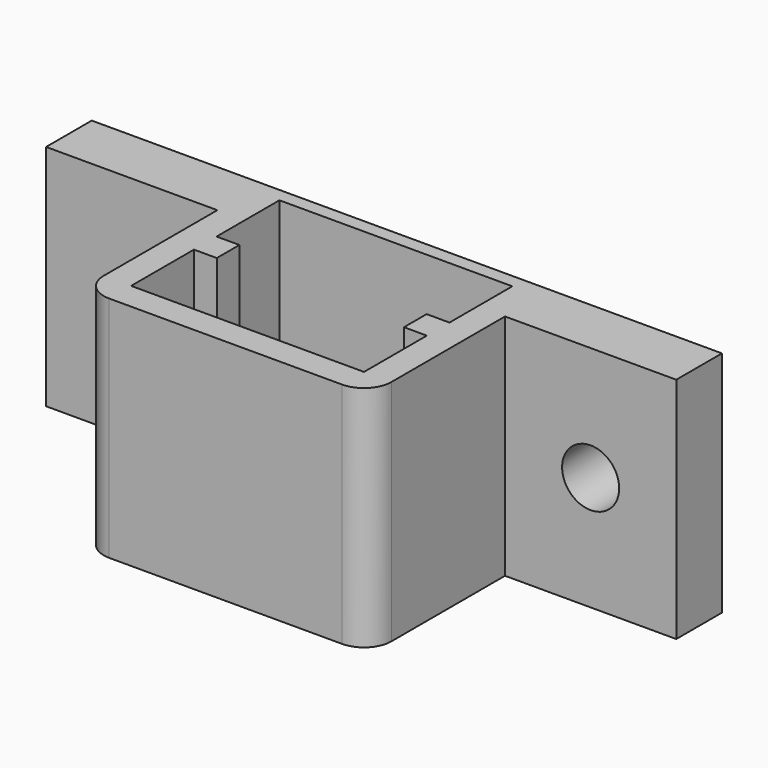
from build123d import *

# Parameters (mm, degrees)
F0_W     = 16.002
F0_H     = 12.5984
F1_DEPTH = 12.7
F2_W     = 9.525
F2_H     = 12.7
F3_DEPTH = 3.175
F4_R     = 1.524
F5_R     = 1.5875
F6_DEPTH = 25.4


with BuildPart() as f1:
    # F0 (on Top) → F1 (new body)
    with BuildSketch(Plane.XY):
        with Locations((0, 4.7752)):
            Rectangle(F0_W, F0_H)
        Polygon((6.477, 4.3688), (6.477, 0), (-6.477, 0), (-6.477, 4.3688), (-5.207, 4.3688), (-5.207, 5.9436), (-6.477, 5.9436), (-6.477, 10.3124), (6.477, 10.3124), (6.477, 5.9436), (5.207, 5.9436), (5.207, 4.3688), align=None, mode=Mode.SUBTRACT)
    extrude(amount=F1_DEPTH)

    # F2 (on face) → F3 (join)
    with BuildSketch(Plane(origin=(0, 11.0744, 0), x_dir=(-1, 0, 0), z_dir=(0, 1, 0))):
        with Locations((12.7635, 6.35)):
            Rectangle(F2_W, F2_H)
        with Locations((-12.7635, 6.35)):
            Rectangle(F2_W, F2_H)
    extrude(amount=-F3_DEPTH)

    # F4
    f4_edges = [f1.edges().sort_by_distance(p)[0] for p in [
        (-8.001, -1.524, 6.35),
        (8.001, -1.524, 6.35),
    ]]
    fillet(f4_edges, radius=F4_R)

    # F5 (on face) → F6 (cut)
    with BuildSketch(Plane.XZ.offset(-7.8994)):
        with Locations((-12.7635, 6.35)):
            Circle(F5_R)
        with Locations((12.7635, 6.35)):
            Circle(F5_R)
    extrude(amount=-F6_DEPTH, mode=Mode.SUBTRACT)


solid = f1.part
